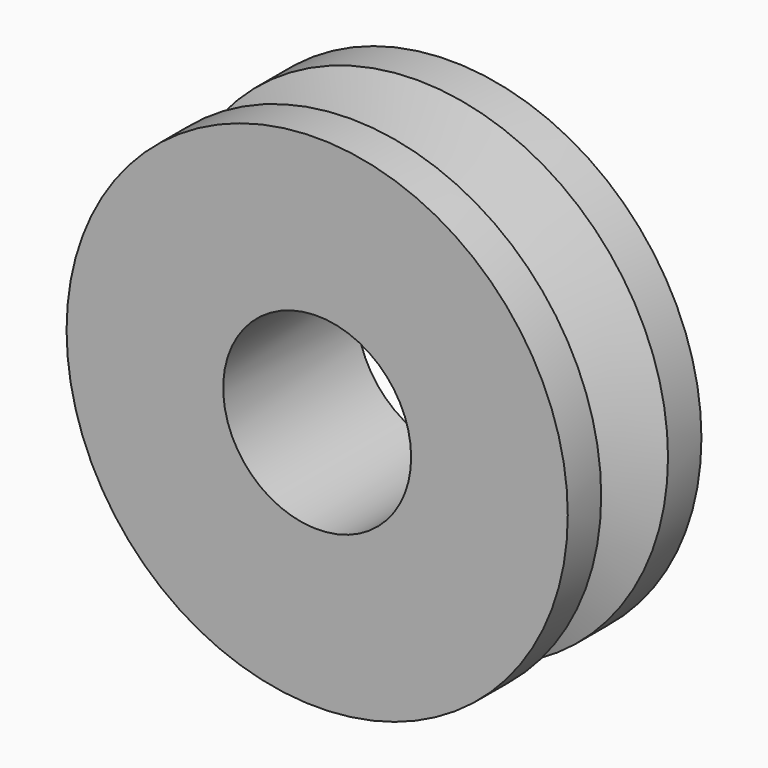
from build123d import *

# Parameters (mm, degrees)
F0_R     = 15
F0_R_2   = 5.625
F1_DEPTH = 10


with BuildPart() as f1:
    # F0 (on Front) → F1 (new body)
    with BuildSketch(Plane.XZ):
        Circle(F0_R)
        Circle(F0_R_2, mode=Mode.SUBTRACT)
    extrude(amount=F1_DEPTH)

    # F3 (on offset) → F4 (revolve, cut)
    with BuildSketch(Plane.YZ):
        Polygon((-2.5, 15), (-7.5, 15), (-5, 8.964466), align=None)
    revolve(axis=Axis((0, 0, 0), (0, 1, 0)), mode=Mode.SUBTRACT)


solid = f1.part
